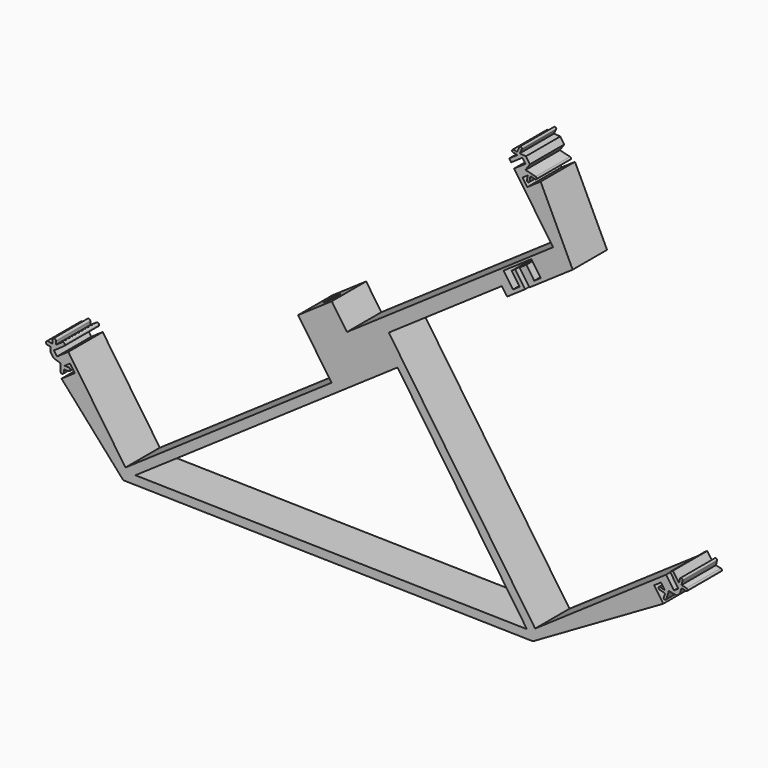
from build123d import *

# Parameters (mm, degrees)
PAD_DEPTH    = 20
SKETCH001_R  = 2.15
POCKET_DEPTH = 47
CHAMFER_SIZE = 1.5


with BuildPart() as part:
    # Sketch → Pad (new body)
    with BuildSketch(Plane.XZ):
        with BuildLine():
            Line((4.039009, 42.574694), (2.655848, 42.793836))
            ThreePointArc((2.906222, 44.374125), (1.990891, 43.709168), (2.655848, 42.793836))
            Line((2.906222, 44.374125), (5.030423, 44.037575))
            Line((5.030423, 44.037575), (5.030423, 45.679508))
            ThreePointArc((6.630423, 45.679508), (5.830423, 46.479508), (5.030423, 45.679508))
            Line((6.630423, 45.679508), (6.630423, 44.166555))
            Line((6.630423, 44.166555), (8.44155, 45.411155))
            Line((8.44155, 45.411155), (9.447306, 46.1366))
            ThreePointArc((10.36219, 44.864349), (10.54179, 45.958576), (9.447306, 46.1366))
            Line((10.36219, 44.864349), (7.849046, 43.062615))
            Line((7.849046, 43.062615), (5.639009, 41.543887))
            Line((5.639009, 41.543887), (7.054906, 39.48349))
            Line((7.054906, 39.48349), (12.329523, 43.108185))
            Line((12.329523, 43.108185), (38.948379, 4.372717))
            Line((134.880474, 70.296864), (38.948379, 4.372717))
            Line((119.305612, 92.961233), (134.880474, 70.296864))
            Line((134.96463, 103.722048), (119.305612, 92.961233))
            Line((142.044114, 93.420062), (134.96463, 103.722048))
            Line((237.976209, 159.344209), (142.044114, 93.420062))
            Line((219.852732, 185.717293), (237.976209, 159.344209))
            Line((225.127349, 189.341989), (219.852732, 185.717293))
            Line((223.711452, 191.402386), (225.127349, 189.341989))
            Line((218.436835, 187.77769), (223.711452, 191.402386))
            Line((218.436835, 187.77769), (217.530661, 189.096345))
            Line((217.530661, 189.096345), (221.384849, 191.744926))
            Line((221.384849, 191.744926), (219.379319, 192.170864))
            ThreePointArc((219.628617, 193.344683), (218.917058, 192.882422), (219.379319, 192.170864))
            Line((219.628617, 193.344683), (221.24827, 193.000698))
            Line((221.24827, 193.000698), (222.339521, 195.334027))
            ThreePointArc((223.426518, 194.825661), (223.137203, 195.623343), (222.339521, 195.334027))
            Line((223.426518, 194.825661), (222.458309, 192.755421))
            Line((222.458309, 192.755421), (225.35977, 192.535103))
            Line((225.35977, 192.535103), (227.205855, 189.8487))
            Line((227.205855, 189.8487), (225.162842, 186.850988))
            Line((225.162842, 186.850988), (229.879355, 185.690134))
            ThreePointArc((229.592563, 184.524909), (230.318572, 184.964126), (229.879355, 185.690134))
            Line((229.592563, 184.524909), (227.449372, 185.052402))
            Line((227.449372, 185.052402), (226.943935, 182.66136))
            ThreePointArc((225.77104, 182.655995), (226.359652, 182.185457), (226.943935, 182.66136))
            Line((225.77104, 182.655995), (226.273638, 185.03361))
            Line((226.273638, 185.03361), (223.79734, 183.331907))
            Line((223.79734, 183.331907), (226.006139, 180.117688))
            Line((226.006139, 180.117688), (232.18733, 184.365377))
            Line((232.18733, 184.365377), (247.106338, 153.120807))
            Line((247.106338, 153.120807), (245.375605, 151.931453))
            Line((226.996861, 139.301656), (245.375605, 151.931453))
            Line((222.409356, 145.977343), (226.996861, 139.301656))
            Line((225.54116, 148.129505), (222.409356, 145.977343))
            Line((229.222491, 142.772473), (225.54116, 148.129505))
            Line((232.271879, 144.868), (229.222491, 142.772473))
            Line((227.910918, 151.214023), (232.271879, 144.868))
            Line((214.971623, 142.322192), (227.910918, 151.214023))
            Line((219.332585, 135.976169), (214.971623, 142.322192))
            Line((222.381972, 138.071696), (219.332585, 135.976169))
            Line((218.700641, 143.428729), (222.381972, 138.071696))
            Line((220.348959, 144.561446), (218.700641, 143.428729))
            Line((224.936464, 137.885759), (220.348959, 144.561446))
            Line((216.560272, 132.129674), (224.936464, 137.885759))
            Line((214.12493, 135.673557), (216.560272, 132.129674))
            Line((214.12493, 135.673557), (161.513364, 99.519102))
            Line((161.513364, 99.519102), (229.635216, 0.388931))
            Line((290.622974, 42.299471), (229.635216, 0.388931))
            Line((294.258763, 37.008711), (290.622974, 42.299471))
            Line((296.31916, 38.424607), (294.258763, 37.008711))
            Line((292.460363, 44.039886), (296.31916, 38.424607))
            Line((292.460363, 44.039886), (293.779018, 44.94606))
            Line((293.779018, 44.94606), (296.611353, 40.824476))
            Line((296.611353, 40.824476), (297.055734, 42.735476))
            ThreePointArc((298.27896, 42.451029), (297.809571, 43.204865), (297.055734, 42.735476))
            Line((298.27896, 42.451029), (297.79847, 40.384748))
            Line((297.79847, 40.384748), (300.094356, 39.873139))
            ThreePointArc((299.821203, 38.647342), (300.570678, 39.123664), (300.094356, 39.873139))
            Line((299.821203, 38.647342), (297.765407, 39.10545))
            Line((297.765407, 39.10545), (296.952983, 36.433452))
            Line((296.952983, 36.433452), (295.39148, 35.360393))
            Line((295.39148, 35.360393), (291.873432, 36.02126))
            Line((291.873432, 36.02126), (290.627867, 32.242369))
            ThreePointArc((289.412187, 32.33524), (289.983665, 31.812832), (290.627867, 32.242369))
            Line((289.412187, 32.33524), (290.101718, 34.427194))
            Line((290.101718, 34.427194), (287.564776, 35.169274))
            ThreePointArc((287.653171, 36.393701), (287.114763, 35.817166), (287.564776, 35.169274))
            Line((287.653171, 36.393701), (290.071377, 35.686353))
            Line((290.071377, 35.686353), (288.237588, 38.354863))
            Line((288.237588, 38.354863), (285.035062, 36.129048))
            Line((285.035062, 36.129048), (289.282752, 29.947856))
            Line((289.282752, 29.947856), (228.604015, -5.17314))
            Line((37.917178, -1.189353), (228.604015, -5.17314))
            Line((9.169934, 31.108727), (37.917178, -1.189353))
            Line((15.351126, 35.356416), (9.169934, 31.108727))
            Line((13.142327, 38.570636), (15.351126, 35.356416))
            Line((10.619339, 36.836849), (13.142327, 38.570636))
            Line((12.456819, 36.836849), (10.619339, 36.836849))
            ThreePointArc((12.456819, 35.236849), (13.256819, 36.036849), (12.456819, 36.836849))
            Line((10.207431, 35.236849), (12.456819, 35.236849))
            Line((10.207431, 33.941322), (10.207431, 35.236849))
            ThreePointArc((8.607431, 33.941322), (9.407431, 33.141322), (10.207431, 33.941322))
            Line((8.607431, 37.271491), (8.607431, 33.941322))
            Line((5.406588, 38.350772), (8.607431, 37.271491))
            Line((4.039009, 40.340858), (5.406588, 38.350772))
            Line((4.039009, 40.340858), (4.039009, 42.574694))
        make_face()
        Polygon((43.567429, 2.693476), (225.814584, -1.113991), (165.579391, 86.539602), align=None, mode=Mode.SUBTRACT)
    extrude(amount=PAD_DEPTH)

    # Sketch001 (on DatumPlane) → Pocket (cut)
    with BuildSketch(Plane(origin=(-5.122749, 0, 7.454568), x_dir=(-0.824159, 0, -0.566359), z_dir=(-0.566359, 0, 0.824159))):
        with Locations((-160.5, 9.989038)):
            Circle(SKETCH001_R)
    extrude(amount=-POCKET_DEPTH, mode=Mode.SUBTRACT)

    # Chamfer
    chamfer_edges = [part.edges().sort_by_distance(p)[0] for p in [
        (128.926695, -9.989038, 99.572803),
    ]]
    chamfer(chamfer_edges, length=CHAMFER_SIZE)


solid = part.part
